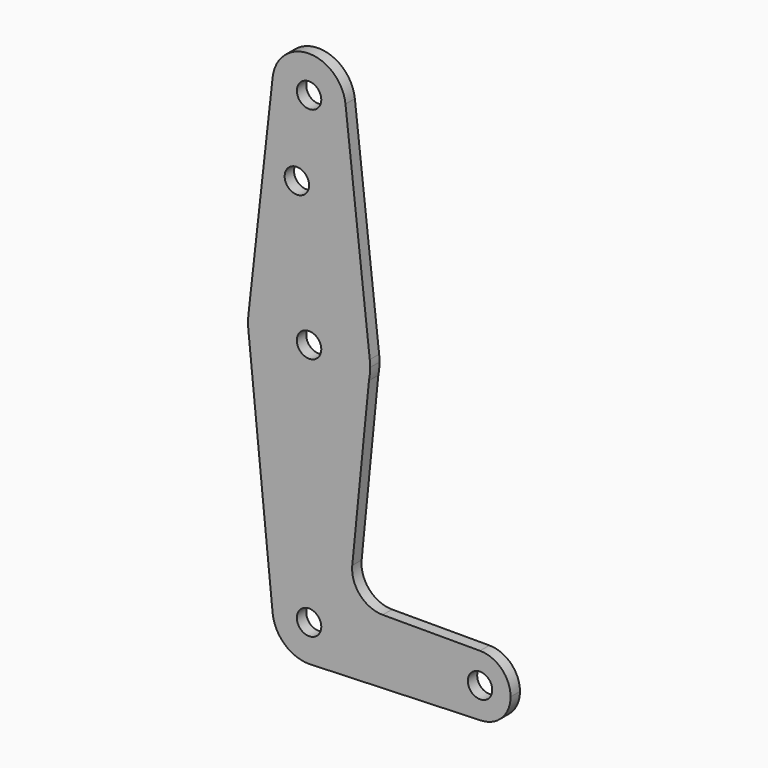
from build123d import *

# Parameters (mm, degrees)
F0_R     = 3.175
F1_DEPTH = 3.048


with BuildPart() as f1:
    # F0 (on Front) → F1 (new body)
    with BuildSketch(Plane.XZ):
        with BuildLine():
            ThreePointArc((0.677344, -9.500886), (6.970557, -6.491299), (9.525, 0))
            ThreePointArc((9.525, 0), (-0.476848, 9.513056), (-9.477255, -0.9525))
            ThreePointArc((-9.477255, -0.9525), (-6.389564, -7.063929), (0, -9.525))
            Line((0, -9.525), (0.677344, -9.500886))
        make_face()
        Circle(F0_R, mode=Mode.SUBTRACT)
        with BuildLine():
            ThreePointArc((-9.477255, -0.9525), (-0.476848, 9.513056), (9.525, 0))
            ThreePointArc((9.525, 0), (6.970557, -6.491299), (0.677344, -9.500886))
            Line((0.677344, -9.500886), (44.732405, -7.932475))
            ThreePointArc((44.732405, -7.932475), (36.513756, -0.141225), (44.45, 7.9375))
            Line((44.45, 7.9375), (19.13814, 7.9375))
            ThreePointArc((19.13814, 7.9375), (13.245391, 10.550923), (11.22682, 16.673))
            Line((11.22682, 16.673), (15.565216, 60.379155))
            ThreePointArc((15.565216, 60.379155), (-0.775265, 47.643942), (-15.795426, 61.9125))
            Line((-15.795426, 61.9125), (-9.477255, -0.9525))
        make_face()
        with BuildLine():
            ThreePointArc((0, -9.525), (0.338886, -9.51897), (0.677344, -9.500886))
            Line((0.677344, -9.500886), (0, -9.525))
        make_face()
        with BuildLine():
            ThreePointArc((-15.776702, 65.263889), (-15.874752, 63.58869), (-15.795426, 61.9125))
            ThreePointArc((-15.795426, 61.9125), (-0.775265, 47.643942), (15.565216, 60.379155))
            Line((15.565216, 60.379155), (15.875, 63.5))
            ThreePointArc((15.875, 63.5), (15.850406, 64.383313), (15.776702, 65.263889))
            ThreePointArc((15.776702, 65.263889), (0, 79.375), (-15.776702, 65.263889))
        make_face()
        with Locations((0, 63.5)):
            Circle(F0_R, mode=Mode.SUBTRACT)
        with BuildLine():
            ThreePointArc((44.45, 7.9375), (36.513756, -0.141225), (44.732405, -7.932475))
            ThreePointArc((44.732405, -7.932475), (50.161633, -5.51191), (52.3875, 0))
            ThreePointArc((52.3875, 0), (50.06266, 5.61266), (44.45, 7.9375))
        make_face()
        with Locations((44.45, 0)):
            Circle(F0_R, mode=Mode.SUBTRACT)
        with BuildLine():
            Line((-9.466021, 121.708333), (-15.776702, 65.263889))
            ThreePointArc((-15.776702, 65.263889), (0, 79.375), (15.776702, 65.263889))
            Line((15.776702, 65.263889), (9.466021, 121.708333))
            ThreePointArc((9.466021, 121.708333), (9.510244, 121.179988), (9.525, 120.65))
            ThreePointArc((9.525, 120.65), (-0.529988, 111.139756), (-9.466021, 121.708333))
        make_face()
        with Locations((-3.175, 100.0252)):
            Circle(F0_R, mode=Mode.SUBTRACT)
        with BuildLine():
            Line((15.875, 63.5), (15.565216, 60.379155))
            ThreePointArc((15.565216, 60.379155), (15.797364, 61.931909), (15.875, 63.5))
        make_face()
        with BuildLine():
            ThreePointArc((9.466021, 121.708333), (0, 130.175), (-9.466021, 121.708333))
            ThreePointArc((-9.466021, 121.708333), (-0.529988, 111.139756), (9.525, 120.65))
            ThreePointArc((9.525, 120.65), (9.510244, 121.179988), (9.466021, 121.708333))
        make_face()
        with Locations((0, 120.65)):
            Circle(F0_R, mode=Mode.SUBTRACT)
    extrude(amount=F1_DEPTH)


solid = f1.part
